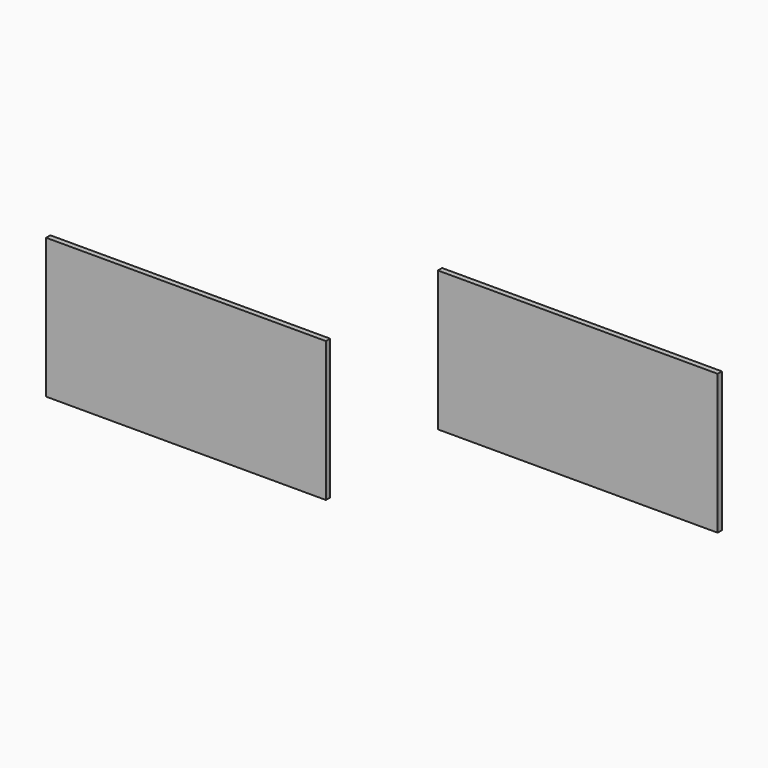
from build123d import *

# Parameters (mm, degrees)
F0_W     = 1000
F0_H     = 500
F1_DEPTH = 9.5


with BuildPart() as f1:
    # F0 (on Front) → F1 (new body, symmetric)
    with BuildSketch(Plane.XZ):
        Rectangle(F0_W, F0_H)
    extrude(amount=F1_DEPTH, both=True)


with BuildPart() as f2_1:
    # F2: copy of F1
    add(f1.part.moved(Location((1000, 500, 19))))


solid = Compound([f1.part, f2_1.part])
